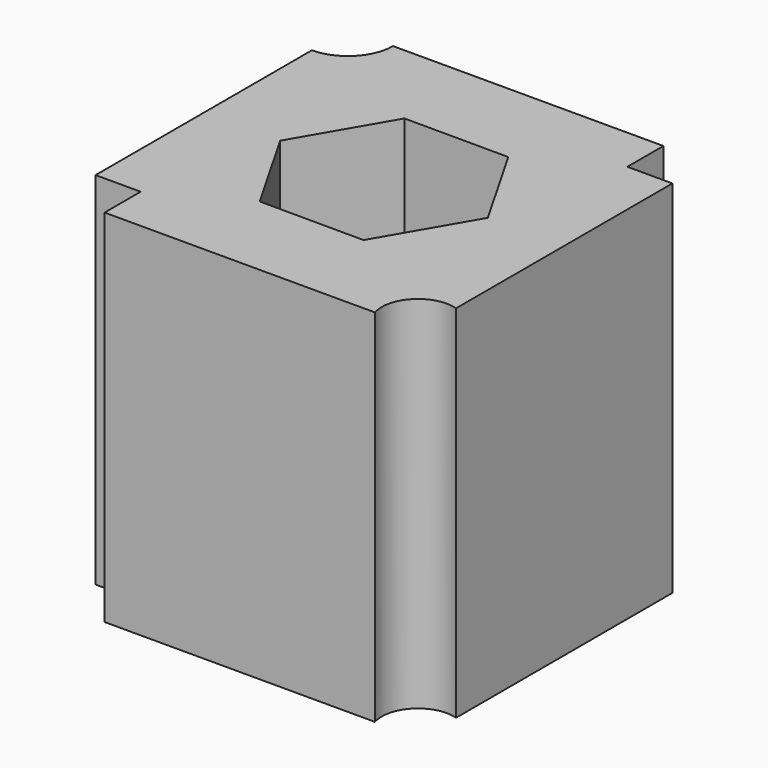
from build123d import *

# Parameters (mm, degrees)
F1_DEPTH = 25.4


with BuildPart() as f1:
    # F0 (on Top) → F1 (new body)
    with BuildSketch(Plane.XY):
        with BuildLine():
            Line((9.525, 12.7), (-9.525, 12.7))
            ThreePointArc((-9.525, 12.7), (-10.454936, 10.454936), (-12.7, 9.525))
            Line((-12.7, 9.525), (-12.7, -9.525))
            Line((-12.7, -9.525), (-9.525, -9.525))
            Line((-9.525, -9.525), (-9.525, -12.7))
            Line((-9.525, -12.7), (9.525, -12.7))
            ThreePointArc((9.525, -12.7), (10.156475, -10.156475), (12.7, -9.525))
            Line((12.7, -9.525), (12.7, 9.525))
            Line((12.7, 9.525), (9.525, 9.525))
            Line((9.525, 9.525), (9.525, 12.7))
        make_face()
        Polygon((-3.648473, 6.360187), (3.683847, 6.339764), (7.33232, -0.020423), (3.648473, -6.360187), (-3.683847, -6.339764), (-7.33232, 0.020423), align=None, mode=Mode.SUBTRACT)
    extrude(amount=F1_DEPTH)


solid = f1.part
